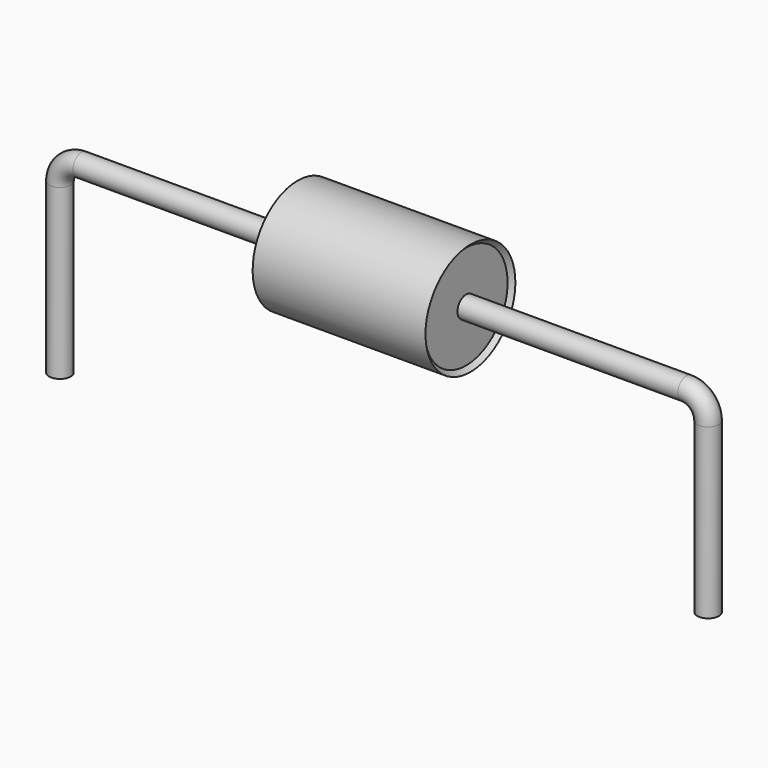
from build123d import *

# Parameters (mm, degrees)
SKETCH_R = 0.25


with BuildPart() as sweep_body:
    # Sweep: sweep along a path in Sketch001
    with BuildLine(Plane.XZ) as sweep_path:
        Line((0, -3), (0, 0.9))
        ThreePointArc((0, 0.9), (0.146443, 1.25355), (0.499991, 1.4))
        Line((0.499991, 1.4), (14.5, 1.4))
        ThreePointArc((14.5, 1.4), (14.853553, 1.253553), (15, 0.9))
        Line((15, 0.9), (15, -3))
    # Sketch → Sweep (sweep)
    with BuildSketch(Plane.XY.offset(-2)):
        Circle(SKETCH_R)
    sweep(path=sweep_path.line)


with BuildPart() as revolution:
    # Sketch002 → Revolution (revolve)
    with BuildSketch(Plane.XZ):
        Polygon((5.5, 2.7), (9.5, 2.7), (9.4, 2.6), (9.4, 1.4), (5.6, 1.4), (5.6, 2.6), align=None)
    revolve(axis=Axis((7.611803, 0, 1.4), (1, 0, 0)))


solid = Compound([sweep_body.part, revolution.part])
